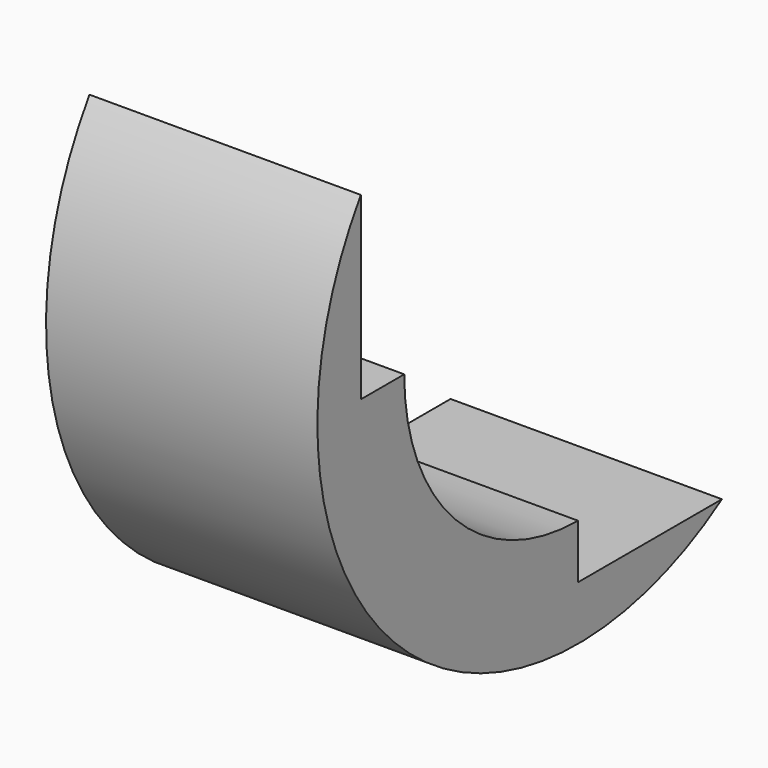
from build123d import *

# Parameters (mm, degrees)
BOX014_W      = 5
BOX014_H      = 10
BOX014_DEPTH  = 8
BOX013_W      = 5
BOX013_H      = 8
BOX013_DEPTH  = 10
TUBE006_R     = 6
TUBE006_R_2   = 4
TUBE006_DEPTH = 5


with BuildPart() as cube014:
    # Box014 → Box014 (new body)
    with BuildSketch(Plane(origin=(0, -2, 3), x_dir=(1, 0, 0), z_dir=(0, 0, 1))):
        with Locations((2.5, 5)):
            Rectangle(BOX014_W, BOX014_H)
    extrude(amount=BOX014_DEPTH)


with BuildPart() as cube013:
    # Box013 → Box013 (new body)
    with BuildSketch(Plane(origin=(0, 3, -2), x_dir=(1, 0, 0), z_dir=(0, 0, 1))):
        with Locations((2.5, 4)):
            Rectangle(BOX013_W, BOX013_H)
    extrude(amount=BOX013_DEPTH)


with BuildPart() as cut013:
    # Tube006 → Tube006 (new body)
    with BuildSketch(Plane(origin=(0, 3, 3), x_dir=(0, 0, -1), z_dir=(1, 0, 0))):
        Circle(TUBE006_R)
        Circle(TUBE006_R_2, mode=Mode.SUBTRACT)
    extrude(amount=TUBE006_DEPTH)

    # Cut012: cut Cube013
    add(cube013.part, mode=Mode.SUBTRACT)

    # Cut013: cut Cube014
    add(cube014.part, mode=Mode.SUBTRACT)


solid = cut013.part
